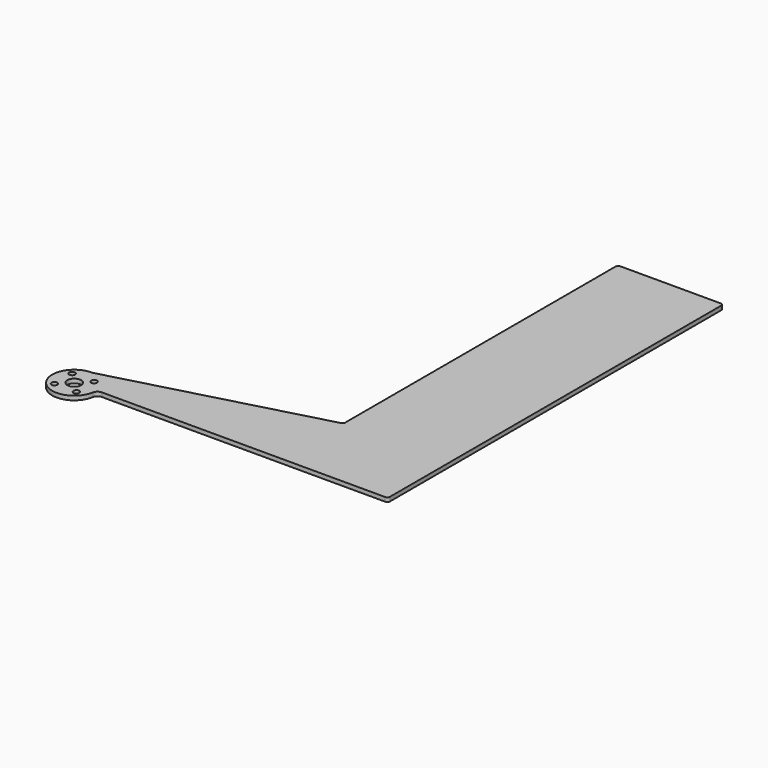
from build123d import *

# Parameters (mm, degrees)
SKETCH_R   = 2.15
SKETCH_R_2 = 5
PAD_DEPTH  = 3


with BuildPart() as part:
    # Sketch → Pad (new body)
    with BuildSketch(Plane.XY):
        with BuildLine():
            Line((36.7, 0.5), (225.5, 0.5))
            ThreePointArc((225.5, 0.5), (226.914214, 1.085786), (227.5, 2.5))
            Line((227.5, 2.5), (227.5, 303.3))
            ThreePointArc((227.5, 303.3), (226.914214, 304.714214), (225.5, 305.3))
            Line((225.5, 305.3), (152.7, 305.3))
            ThreePointArc((152.7, 305.3), (151.285786, 304.714214), (150.7, 303.3))
            Line((150.7, 303.3), (150.7, 57.773493))
            ThreePointArc((149.217638, 55.841641), (150.286707, 56.55597), (150.7, 57.773493))
            Line((1.035276, 16.136297), (149.217638, 55.841641))
            ThreePointArc((0, 16), (0.522105, 16.034221), (1.035276, 16.136297))
            ThreePointArc((0, 16), (-12.263768, -10.276186), (15.753095, -2.8))
            ThreePointArc((19.691369, 0.5), (17.122322, -0.434058), (15.753095, -2.8))
            Line((36.7, 0.5), (19.691369, 0.5))
        make_face()
        with Locations((-8, 8)):
            Circle(SKETCH_R, mode=Mode.SUBTRACT)
        with Locations((8, 8)):
            Circle(SKETCH_R, mode=Mode.SUBTRACT)
        with Locations((-8, -8)):
            Circle(SKETCH_R, mode=Mode.SUBTRACT)
        with Locations((8, -8)):
            Circle(SKETCH_R, mode=Mode.SUBTRACT)
        Circle(SKETCH_R_2, mode=Mode.SUBTRACT)
    extrude(amount=PAD_DEPTH)


solid = part.part
